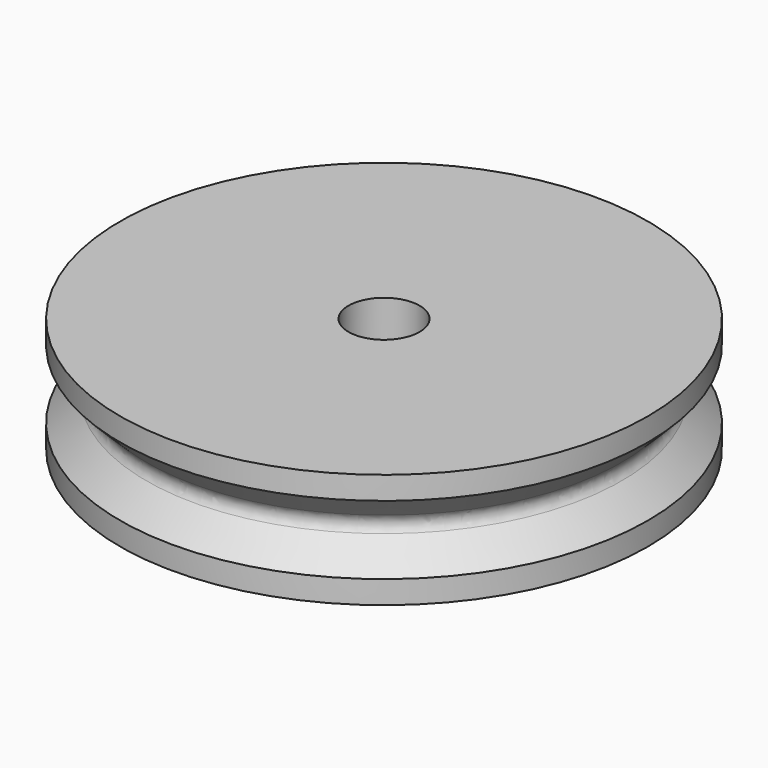
from build123d import *

# Parameters (mm, degrees)
F0_R        = 11.5
F0_R_2      = 1.55
F2_DEPTH    = 4
F2_FACE_R   = 11.5
F2_FACE_R_2 = 1.55
F4_DEPTH    = 1
F5_R        = 0.5


with BuildPart() as f2:
    # F0 (on Top) → F2 (new body)
    with BuildSketch(Plane.XY):
        Circle(F0_R)
        Circle(F0_R_2, mode=Mode.SUBTRACT)
    extrude(amount=F2_DEPTH)

    # F1 (on Front) → F3 (revolve, cut)
    with BuildSketch(Plane.XZ):
        Polygon((-11.5, 3), (-11.5, 0), (-10, 1.5), align=None)
    revolve(axis=Axis((0, 0, 1.929782), (0, 0, 1)), mode=Mode.SUBTRACT)

    # F2_face (on face) → F4 (join)
    with BuildSketch(Plane(origin=(0, 0, 0), x_dir=(1, 0, 0), z_dir=(0, 0, -1))):
        Circle(F2_FACE_R)
        Circle(F2_FACE_R_2, mode=Mode.SUBTRACT)
    extrude(amount=F4_DEPTH)

    # F5
    f5_edges = [f2.edges().sort_by_distance(p)[0] for p in [
        (10, 0, 1.5),
    ]]
    fillet(f5_edges, radius=F5_R)


solid = f2.part
